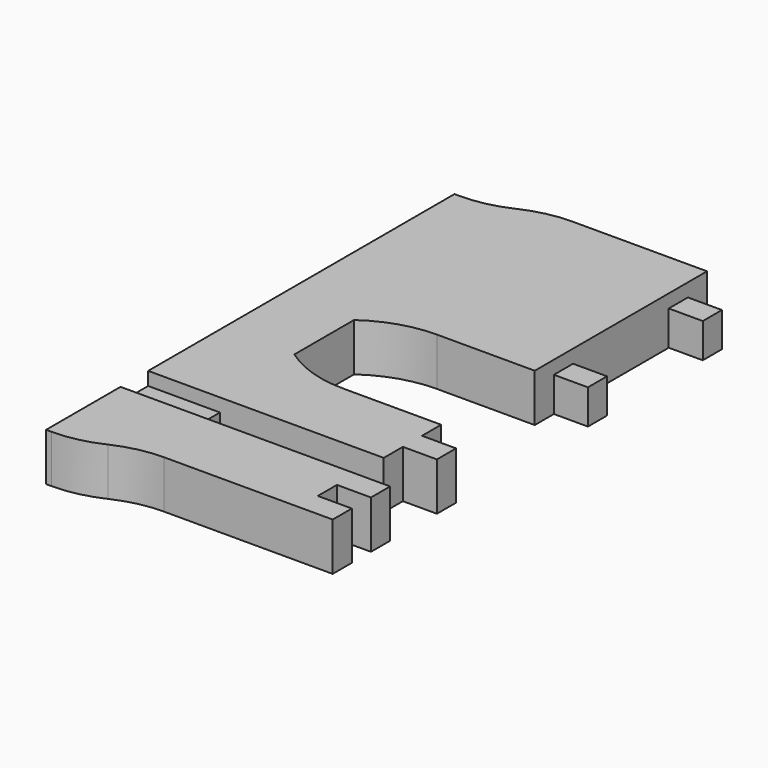
from build123d import *

# Parameters (mm, degrees)
PAD001_DEPTH             = 18
SKETCH008_W              = 12.8
SKETCH008_H              = 63
POCKET003_DEPTH          = 5
SKETCH009_W              = 27
SKETCH009_H              = 13
POCKET004_DEPTH          = 5
CLONE005_PITCH_ANGLE     = -90
CLONE005_PLACEMENT_ANGLE = -90


with BuildPart() as part:
    # Clone2D001 → Pad001 (new body)
    with BuildSketch(Plane.YZ):
        with BuildLine():
            Line((-95, 192), (-93, 192))
            ThreePointArc((-93, 192), (-83.780456, 193.01205), (-75, 196))
            ThreePointArc((-75, 196), (-66.219544, 198.98795), (-57, 200))
            Line((-57, 200), (-6.4, 200))
            Line((-6.4, 200), (-6.4, 191))
            Line((-6.4, 191), (6.4, 191))
            Line((6.4, 191), (6.4, 182))
            Line((6.4, 182), (-6.4, 182))
            Line((-6.4, 182), (-6.4, 137))
            Line((-6.4, 137), (6.4, 137))
            Line((6.4, 137), (6.4, 128))
            Line((6.4, 128), (-6.4, 128))
            Line((-6.4, 128), (-6.4, 119))
            Line((-6.4, 119), (-43.180653, 119))
            ThreePointArc((-43.180653, 119), (-56.219058, 116.950587), (-68, 111))
            Line((-68, 111), (-68, 83))
            ThreePointArc((-68, 83), (-56.219058, 77.049413), (-43.180653, 75))
            Line((-43.180653, 75), (-6.4, 75))
            Line((-6.4, 75), (-6.4, 66))
            Line((-6.4, 66), (6.4, 66))
            Line((6.4, 66), (6.4, 57))
            Line((6.4, 57), (-6.4, 57))
            Line((-6.4, 57), (-6.4, 48))
            Line((-6.4, 48), (-68, 48))
            Line((-68, 48), (-68, 35))
            Line((-68, 35), (6.4, 35))
            Line((6.4, 35), (6.4, 26))
            Line((6.4, 26), (-6.4, 26))
            Line((-6.4, 26), (-6.4, 17))
            Line((-6.4, 17), (6.4, 17))
            Line((6.4, 17), (6.4, 8))
            Line((6.4, 8), (-57, 8))
            ThreePointArc((-57, 8), (-66.219544, 6.98795), (-75, 4))
            ThreePointArc((-75, 4), (-83.780456, 1.01205), (-93, 0))
            Line((-93, 0), (-95, 0))
            Line((-95, 0), (-95, 192))
        make_face()
    extrude(amount=PAD001_DEPTH)

    # Sketch008 (on Face38 of Pad001) → Pocket003 (cut)
    with BuildSketch(Plane.YZ.offset(18)):
        with Locations((0, 159.5)):
            Rectangle(SKETCH008_W, SKETCH008_H)
    extrude(amount=-POCKET003_DEPTH, mode=Mode.SUBTRACT)

    # Sketch009 (on Face5 of Pocket003) → Pocket004 (cut)
    with BuildSketch(Plane.YZ.offset(18)):
        with Locations((-81.5, 41.5)):
            Rectangle(SKETCH009_W, SKETCH009_H)
    extrude(amount=-POCKET004_DEPTH, mode=Mode.SUBTRACT)


with BuildPart() as part_1:
    # Clone005 pitch: moved
    add(part.part.rotate(Axis((0, 0, 0), (0, 1, 0)), CLONE005_PITCH_ANGLE))


with BuildPart() as part_2:
    # Clone005 placement: moved
    add(part_1.part.moved(Location((-21.5, 0, 0))).rotate(Axis((-21.5, 0, 0), (0, 0, 1)), CLONE005_PLACEMENT_ANGLE))


solid = part_2.part
